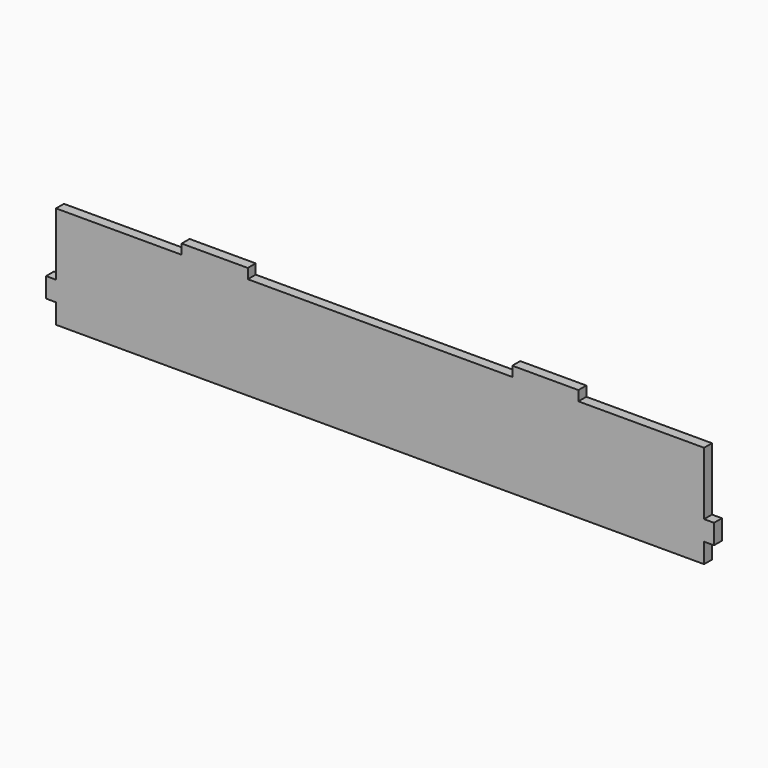
from build123d import *

# Parameters (mm, degrees)
F1_DEPTH = 1.5


with BuildPart() as f1:
    # F0 (on Front) → F1 (new body, symmetric)
    with BuildSketch(Plane.XZ):
        Polygon((-60, 15.5), (-98, 15.5), (-98, -3.5), (-101, -3.5), (-101, -9.5), (-98, -9.5), (-98, -15.5), (98, -15.5), (98, -9.5), (101, -9.5), (101, -3.5), (98, -3.5), (98, 15.5), (60, 15.5), (60, 18.5), (40, 18.5), (40, 15.5), (0, 15.5), (-40, 15.5), (-40, 18.5), (-60, 18.5), align=None)
    extrude(amount=F1_DEPTH, both=True)


solid = f1.part
